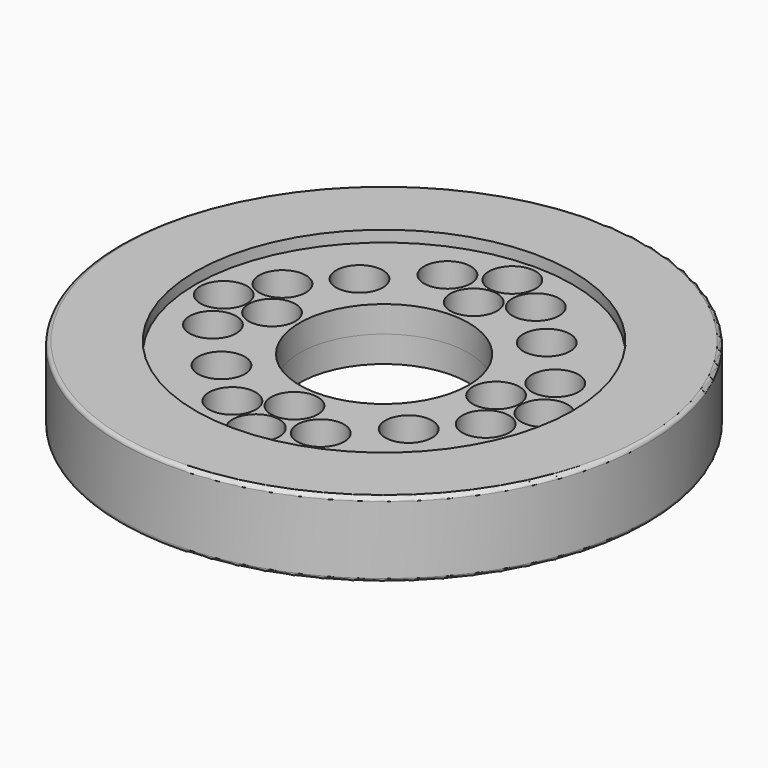
from build123d import *

# Parameters (mm, degrees)
F0_R          = 35
F0_R_2        = 25
F2_DEPTH      = 5
F2_DEPTH_BACK = 5
F1_R          = 25
F1_R_2        = 3.1
F1_R_3        = 11.2
F3_DEPTH      = 3.5
F3_DEPTH_BACK = 3.5
F4_R          = 0.5


with BuildPart() as f2:
    # F0 (on Top) → F2 (new body, two sides)
    with BuildSketch(Plane.XY) as f2_sk:
        Circle(F0_R)
        Circle(F0_R_2, mode=Mode.SUBTRACT)
    extrude(amount=F2_DEPTH)
    extrude(f2_sk.sketch, amount=-F2_DEPTH_BACK)

    # F1 (on Top) → F3 (join, two sides)
    with BuildSketch(Plane.XY) as f3_sk:
        Circle(F1_R)
        with Locations((-11.558051, -12.506845)):
            Circle(F1_R_2, mode=Mode.SUBTRACT)
        with Locations((-5.692771, -18.02711)):
            Circle(F1_R_2, mode=Mode.SUBTRACT)
        with Locations((-17.940855, -5.951534)):
            Circle(F1_R_2, mode=Mode.SUBTRACT)
        with Locations((0, -21.25873)):
            Circle(F1_R_2, mode=Mode.SUBTRACT)
        with Locations((5.951534, -17.940855)):
            Circle(F1_R_2, mode=Mode.SUBTRACT)
        with Locations((0, -14.855075)):
            Circle(F1_R_2, mode=Mode.SUBTRACT)
        with Locations((12.506845, -11.558051)):
            Circle(F1_R_2, mode=Mode.SUBTRACT)
        with Locations((18.02711, -5.692771)):
            Circle(F1_R_2, mode=Mode.SUBTRACT)
        with Locations((-21.25873, 0)):
            Circle(F1_R_2, mode=Mode.SUBTRACT)
        with Locations((-14.855075, 0)):
            Circle(F1_R_2, mode=Mode.SUBTRACT)
        with Locations((-18.02711, 5.692771)):
            Circle(F1_R_2, mode=Mode.SUBTRACT)
        with Locations((-12.506845, 11.558051)):
            Circle(F1_R_2, mode=Mode.SUBTRACT)
        with Locations((-5.951534, 17.940855)):
            Circle(F1_R_2, mode=Mode.SUBTRACT)
        Circle(F1_R_3, mode=Mode.SUBTRACT)
        with Locations((14.855075, 0)):
            Circle(F1_R_2, mode=Mode.SUBTRACT)
        with Locations((17.940855, 5.951534)):
            Circle(F1_R_2, mode=Mode.SUBTRACT)
        with Locations((21.25873, 0)):
            Circle(F1_R_2, mode=Mode.SUBTRACT)
        with Locations((0, 14.855075)):
            Circle(F1_R_2, mode=Mode.SUBTRACT)
        with Locations((5.692771, 18.02711)):
            Circle(F1_R_2, mode=Mode.SUBTRACT)
        with Locations((11.558051, 12.506845)):
            Circle(F1_R_2, mode=Mode.SUBTRACT)
        with Locations((0, 21.25873)):
            Circle(F1_R_2, mode=Mode.SUBTRACT)
    extrude(amount=F3_DEPTH)
    extrude(f3_sk.sketch, amount=-F3_DEPTH_BACK)

    # F4
    f4_edges = [f2.edges().sort_by_distance(p)[0] for p in [
        (35, 0, 2.5),
        (-35, 0, 0),
        (-35, 0, 5),
    ]]
    fillet(f4_edges, radius=F4_R)


solid = f2.part
